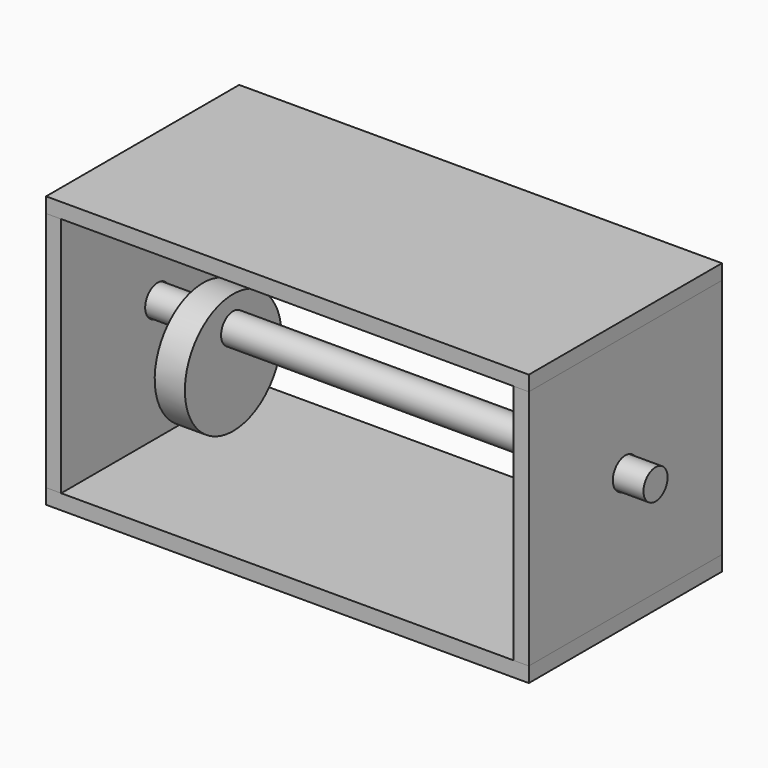
from build123d import *

# Parameters (mm, degrees)
F1_DEPTH      = 50.8
F2_DEPTH      = 50.8
F2_DEPTH_BACK = 50.8
F3_R          = 6.604
F3_R_2        = 6.35
F4_DEPTH      = 203.201
F5_DEPTH      = 12.7
F5_DEPTH_BACK = 203.2
F0_W          = 12.7
F0_H          = 25.4


with BuildPart() as f1:
    # F0 (on Front) → F1 (new body, symmetric)
    with BuildSketch(Plane.XZ):
        Polygon((-95.25, 6.35), (-101.6, 6.35), (-101.6, 0), (101.6, 0), (101.6, 6.35), (95.25, 6.35), align=None)
    extrude(amount=F1_DEPTH, both=True)


with BuildPart() as f1b:
    # F0 (on Front) → F1, piece 2 (new body, symmetric)
    with BuildSketch(Plane.XZ):
        Polygon((-101.6, 114.3), (-101.6, 107.95), (-95.25, 107.95), (95.25, 107.95), (101.6, 107.95), (101.6, 114.3), align=None)
    extrude(amount=F1_DEPTH, both=True)


with BuildPart() as f2:
    # F0 (on Front) → F2 (new body, two sides)
    with BuildSketch(Plane.XZ) as f2_sk:
        Polygon((-101.6, 107.95), (-101.6, 6.35), (-95.25, 6.35), (-95.25, 57.15), (-95.25, 107.95), align=None)
    extrude(amount=F2_DEPTH)
    extrude(f2_sk.sketch, amount=-F2_DEPTH_BACK)


with BuildPart() as f2b:
    # F0 (on Front) → F2, piece 2 (new body, two sides)
    with BuildSketch(Plane.XZ) as f2_2_sk:
        Polygon((95.25, 57.15), (95.25, 6.35), (101.6, 6.35), (101.6, 107.95), (95.25, 107.95), align=None)
    extrude(amount=F2_DEPTH)
    extrude(f2_2_sk.sketch, amount=-F2_DEPTH_BACK)


with BuildPart() as f4_tool:
    # F3 (on face) → F4 (new body, through all)
    with BuildSketch(Plane.YZ.offset(101.6)):
        with Locations((0, 57.15)):
            Circle(F3_R)
        with Locations((0, 57.15)):
            Circle(F3_R_2, mode=Mode.SUBTRACT)
        with Locations((0, 57.15)):
            Circle(F3_R_2)
    extrude(amount=-F4_DEPTH)


with BuildPart() as f2_1:
    add(f2.part)

    # F4: cut by f4_tool
    add(f4_tool.part, mode=Mode.SUBTRACT)


with BuildPart() as f2b_1:
    add(f2b.part)

    # F4: cut by f4_tool
    add(f4_tool.part, mode=Mode.SUBTRACT)


with BuildPart() as f5:
    # F3 (on face) → F5 (new body, two sides)
    with BuildSketch(Plane.YZ.offset(101.6)) as f5_sk:
        with Locations((0, 57.15)):
            Circle(F3_R_2)
    extrude(amount=F5_DEPTH)
    extrude(f5_sk.sketch, amount=-F5_DEPTH_BACK)


with BuildPart() as f6:
    # F0 (on Front) → F6 (revolve)
    with BuildSketch(Plane.XZ):
        with Locations((-69.85, 31.75)):
            Rectangle(F0_W, F0_H)
    revolve(axis=Axis((-69.85, 0, 44.45), (1, 0, 0)))

    # F7: cut F5
    add(f5.part, mode=Mode.SUBTRACT)


solid = Compound([f1.part, f1b.part, f2_1.part, f2b_1.part, f5.part, f6.part])
